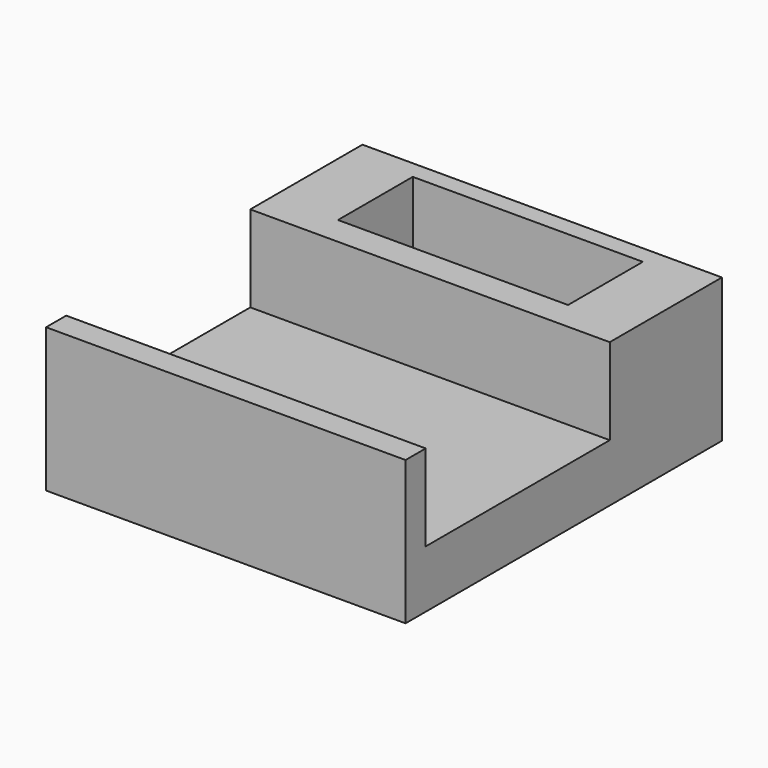
from build123d import *

# Parameters (mm, degrees)
SKETCH_W        = 50
SKETCH_H        = 55
PAD_DEPTH       = 20
SKETCH001_W     = 50
SKETCH001_H     = 32
POCKET_DEPTH    = 12
SKETCH002_W     = 32
SKETCH002_H     = 13
POCKET001_DEPTH = 20


with BuildPart() as part:
    # Sketch → Pad (new body)
    with BuildSketch(Plane.XY):
        Rectangle(SKETCH_W, SKETCH_H)
    extrude(amount=PAD_DEPTH)

    # Sketch001 (on Face6 of Pad) → Pocket (cut)
    with BuildSketch(Plane.XY.offset(20)):
        with Locations((0, -8)):
            Rectangle(SKETCH001_W, SKETCH001_H)
    extrude(amount=-POCKET_DEPTH, mode=Mode.SUBTRACT)

    # Sketch002 (on Face5 of Pocket) → Pocket001 (cut)
    with BuildSketch(Plane.XY.offset(20)):
        with Locations((0, 18.5)):
            Rectangle(SKETCH002_W, SKETCH002_H)
    extrude(amount=-POCKET001_DEPTH, mode=Mode.SUBTRACT)


solid = part.part
